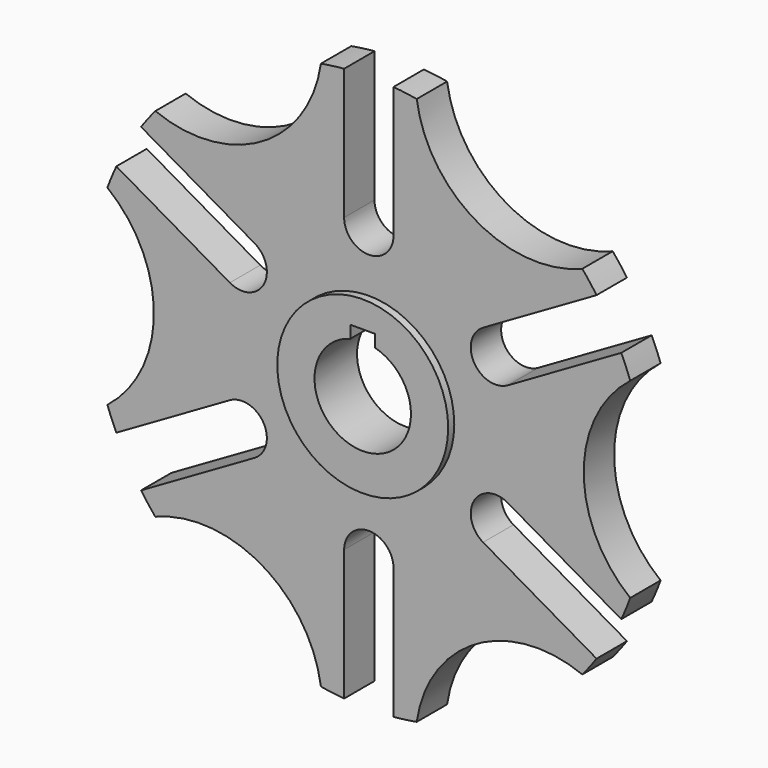
from build123d import *

# Parameters (mm, degrees)
F1_DEPTH = 5
F2_R     = 22.5
F3_DEPTH = 7
F5_DEPTH = 12.5


with BuildPart() as f1:
    # F0 (on Front) → F1 (new body, symmetric)
    with BuildSketch(Plane.XZ):
        with BuildLine():
            Line((6.5, 73), (6.5, 38.5))
            ThreePointArc((6.5, 38.5), (4.5961940777, 33.9038059223), (0, 32))
            ThreePointArc((0, 32), (-4.5961940777, 33.9038059223), (-6.5, 38.5))
            Line((-6.5, 38.5), (-6.5, 73))
            ThreePointArc((-6.5, 73), (-9.566281029, 72.6617937246), (-12.6156130875, 72.1948495838))
            ThreePointArc((-12.6156130875, 72.1948495838), (-28.294097646, 49.0068146771), (-56.2147672182, 47.02286621))
            ThreePointArc((-56.2147672182, 47.02286621), (-58.1438187355, 44.6155392532), (-59.9698544763, 42.1291651246))
            Line((-59.9698544763, 42.1291651246), (-30.0919780457, 24.8791651246))
            ThreePointArc((-30.0919780457, 24.8791651246), (-27.0634601748, 20.9323237932), (-27.7128129211, 16))
            ThreePointArc((-27.7128129211, 16), (-31.6596542525, 12.9714821291), (-36.5919780457, 13.6208348754))
            Line((-36.5919780457, 13.6208348754), (-66.4698544763, 30.8708348754))
            ThreePointArc((-66.4698544763, 30.8708348754), (-67.7100997645, 28.0462544714), (-68.8303803057, 25.1719833738))
            ThreePointArc((-68.8303803057, 25.1719833738), (-56.5881952919, 0), (-68.8303803057, -25.1719833738))
            ThreePointArc((-68.8303803057, -25.1719833738), (-67.7100997645, -28.0462544714), (-66.4698544763, -30.8708348754))
            Line((-66.4698544763, -30.8708348754), (-36.5919780457, -13.6208348754))
            ThreePointArc((-36.5919780457, -13.6208348754), (-31.6596542525, -12.9714821291), (-27.7128129211, -16))
            ThreePointArc((-27.7128129211, -16), (-27.0634601748, -20.9323237932), (-30.0919780457, -24.8791651246))
            Line((-30.0919780457, -24.8791651246), (-59.9698544763, -42.1291651246))
            ThreePointArc((-59.9698544763, -42.1291651246), (-58.1438187355, -44.6155392532), (-56.2147672182, -47.02286621))
            ThreePointArc((-56.2147672182, -47.02286621), (-28.294097646, -49.0068146771), (-12.6156130875, -72.1948495838))
            ThreePointArc((-12.6156130875, -72.1948495838), (-9.566281029, -72.6617937246), (-6.5, -73))
            Line((-6.5, -73), (-6.5, -38.5))
            ThreePointArc((-6.5, -38.5), (-4.5961940777, -33.9038059223), (0, -32))
            ThreePointArc((0, -32), (4.5961940777, -33.9038059223), (6.5, -38.5))
            Line((6.5, -38.5), (6.5, -73))
            ThreePointArc((6.5, -73), (9.566281029, -72.6617937246), (12.6156130875, -72.1948495838))
            ThreePointArc((12.6156130875, -72.1948495838), (28.294097646, -49.0068146771), (56.2147672182, -47.02286621))
            ThreePointArc((56.2147672182, -47.02286621), (58.1438187355, -44.6155392532), (59.9698544763, -42.1291651246))
            Line((59.9698544763, -42.1291651246), (30.0919780457, -24.8791651246))
            ThreePointArc((30.0919780457, -24.8791651246), (27.0634601748, -20.9323237932), (27.7128129211, -16))
            ThreePointArc((27.7128129211, -16), (31.6596542525, -12.9714821291), (36.5919780457, -13.6208348754))
            Line((36.5919780457, -13.6208348754), (66.4698544763, -30.8708348754))
            ThreePointArc((66.4698544763, -30.8708348754), (67.7100997645, -28.0462544714), (68.8303803057, -25.1719833738))
            ThreePointArc((68.8303803057, -25.1719833738), (56.5881952919, 0), (68.8303803057, 25.1719833738))
            ThreePointArc((68.8303803057, 25.1719833738), (67.7100997645, 28.0462544714), (66.4698544763, 30.8708348754))
            Line((66.4698544763, 30.8708348754), (36.5919780457, 13.6208348754))
            ThreePointArc((36.5919780457, 13.6208348754), (31.6596542525, 12.9714821291), (27.7128129211, 16))
            ThreePointArc((27.7128129211, 16), (27.0634601748, 20.9323237932), (30.0919780457, 24.8791651246))
            Line((30.0919780457, 24.8791651246), (59.9698544763, 42.1291651246))
            ThreePointArc((59.9698544763, 42.1291651246), (58.1438187355, 44.6155392532), (56.2147672182, 47.02286621))
            ThreePointArc((56.2147672182, 47.02286621), (28.294097646, 49.0068146771), (12.6156130875, 72.1948495838))
            ThreePointArc((12.6156130875, 72.1948495838), (9.566281029, 72.6617937246), (6.5, 73))
        make_face()
    extrude(amount=F1_DEPTH, both=True)

    # F2 (on Front) → F3 (join, symmetric)
    with BuildSketch(Plane.XZ):
        Circle(F2_R)
    extrude(amount=F3_DEPTH, both=True)

    # F4 (on Front) → F5 (cut, symmetric)
    with BuildSketch(Plane.XZ):
        with BuildLine():
            ThreePointArc((-3.25, 12.2771128528), (-7.7464508002, -10.0639207072), (12.7, 0))
            ThreePointArc((12.7, 0), (10.0639207072, 7.7464508002), (3.25, 12.2771128528))
            Line((3.25, 12.2771128528), (-3.25, 12.2771128528))
        make_face()
        with BuildLine():
            Line((-3.25, 12.2771128528), (3.25, 12.2771128528))
            ThreePointArc((3.25, 12.2771128528), (0, 12.7), (-3.25, 12.2771128528))
        make_face()
        with BuildLine():
            ThreePointArc((-3.25, 12.2771128528), (0, 12.7), (3.25, 12.2771128528))
            Line((3.25, 12.2771128528), (3.25, 15.5271128528))
            Line((3.25, 15.5271128528), (-3.25, 15.5271128528))
            Line((-3.25, 15.5271128528), (-3.25, 12.2771128528))
        make_face()
    extrude(amount=F5_DEPTH, both=True, mode=Mode.SUBTRACT)


solid = f1.part
